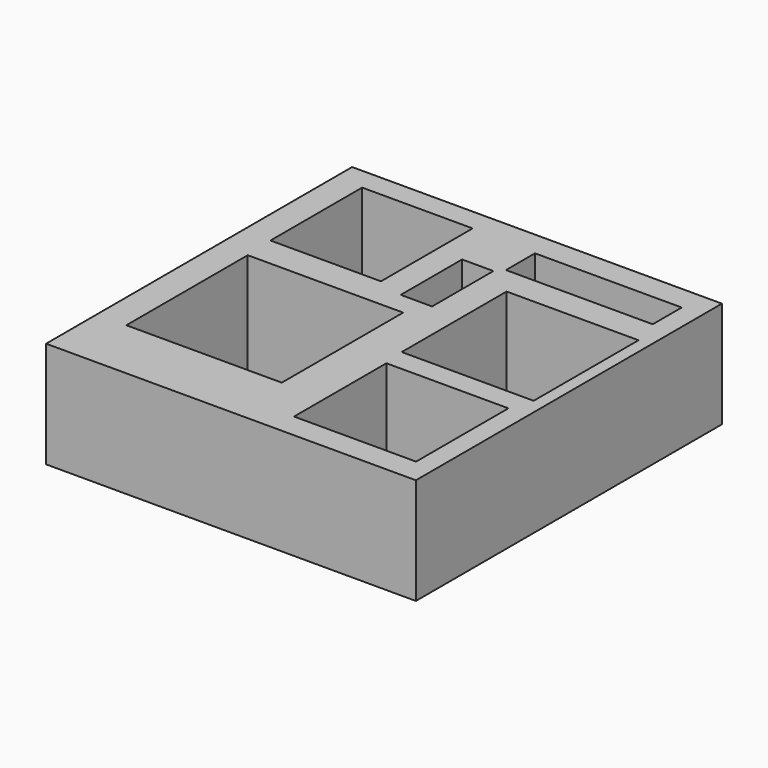
from build123d import *

# Parameters (mm, degrees)
F0_W     = 87
F0_H     = 90
F0_W_2   = 36.562502
F0_H_2   = 35.689657
F0_W_3   = 28.706896
F0_H_3   = 27.155176
F0_W_4   = 7.37069
F0_H_4   = 18.038793
F0_W_5   = 25.99138
F0_H_5   = 26.961208
F0_W_6   = 31.034487
F0_H_6   = 30.84052
F0_W_7   = 34.525867
F0_H_7   = 8.534481
F1_DEPTH = 25


with BuildPart() as f1:
    # F0 (on Top) → F1 (new body)
    with BuildSketch(Plane.XY):
        with Locations((0, -1.454741)):
            Rectangle(F0_W, F0_H)
        with Locations((-18.281251, -13.67457)):
            Rectangle(F0_W_2, F0_H_2, mode=Mode.SUBTRACT)
        with Locations((24.536638, -27.058192)):
            Rectangle(F0_W_3, F0_H_3, mode=Mode.SUBTRACT)
        with Locations((-1.06681, 18.426724)):
            Rectangle(F0_W_4, F0_H_4, mode=Mode.SUBTRACT)
        with Locations((-23.954742, 24.827588)):
            Rectangle(F0_W_5, F0_H_5, mode=Mode.SUBTRACT)
        with Locations((25.118536, 7.176725)):
            Rectangle(F0_W_6, F0_H_6, mode=Mode.SUBTRACT)
        with Locations((21.433191, 33.459053)):
            Rectangle(F0_W_7, F0_H_7, mode=Mode.SUBTRACT)
    extrude(amount=F1_DEPTH)


solid = f1.part
